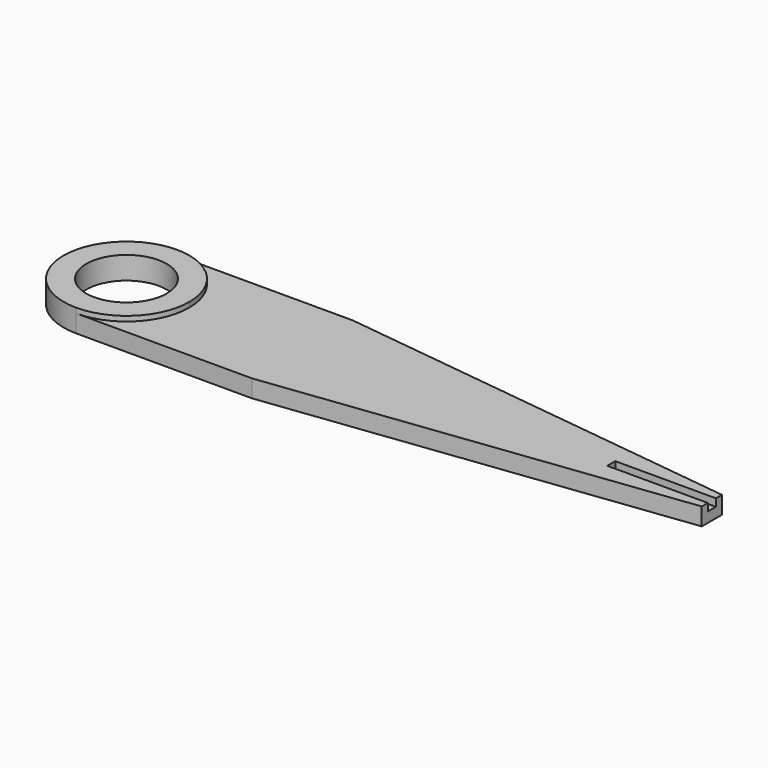
from build123d import *

# Parameters (mm, degrees)
F0_R     = 8
F1_DEPTH = 3.5
F2_DEPTH = 4.5
F4_DEPTH = 1.5


with BuildPart() as f1:
    # F0 (on Top) → F1 (new body)
    with BuildSketch(Plane.XY):
        with BuildLine():
            ThreePointArc((0, -12.5), (8.838835, -8.838835), (12.5, 0))
            ThreePointArc((12.5, 0), (8.838835, 8.838835), (0, 12.5))
            ThreePointArc((0, 12.5), (-12.5, 0), (0, -12.5))
        make_face()
        Circle(F0_R, mode=Mode.SUBTRACT)
        with BuildLine():
            ThreePointArc((0, 12.5), (8.838835, 8.838835), (12.5, 0))
            ThreePointArc((12.5, 0), (8.838835, -8.838835), (0, -12.5))
            Line((0, -12.5), (35, -12.5))
            Line((35, -12.5), (116.388784, -2.506714))
            Line((116.388784, -2.506714), (116.388784, 2.506714))
            Line((116.388784, 2.506714), (35, 12.5))
            Line((35, 12.5), (0, 12.5))
        make_face()
    extrude(amount=F1_DEPTH)

    # F0 (on Top) → F2 (join)
    with BuildSketch(Plane.XY):
        with BuildLine():
            ThreePointArc((0, -12.5), (8.838835, -8.838835), (12.5, 0))
            ThreePointArc((12.5, 0), (8.838835, 8.838835), (0, 12.5))
            ThreePointArc((0, 12.5), (-12.5, 0), (0, -12.5))
        make_face()
        Circle(F0_R, mode=Mode.SUBTRACT)
    extrude(amount=F2_DEPTH)

    # F3 (on face) → F4 (cut)
    with BuildSketch(Plane.XY.offset(3.5)):
        Polygon((116.388784, 0), (116.388784, 1.006714), (96.388784, 1.006714), (96.388784, 0), (96.388784, -0.993286), (116.388784, -0.993286), align=None)
    extrude(amount=-F4_DEPTH, mode=Mode.SUBTRACT)


solid = f1.part
